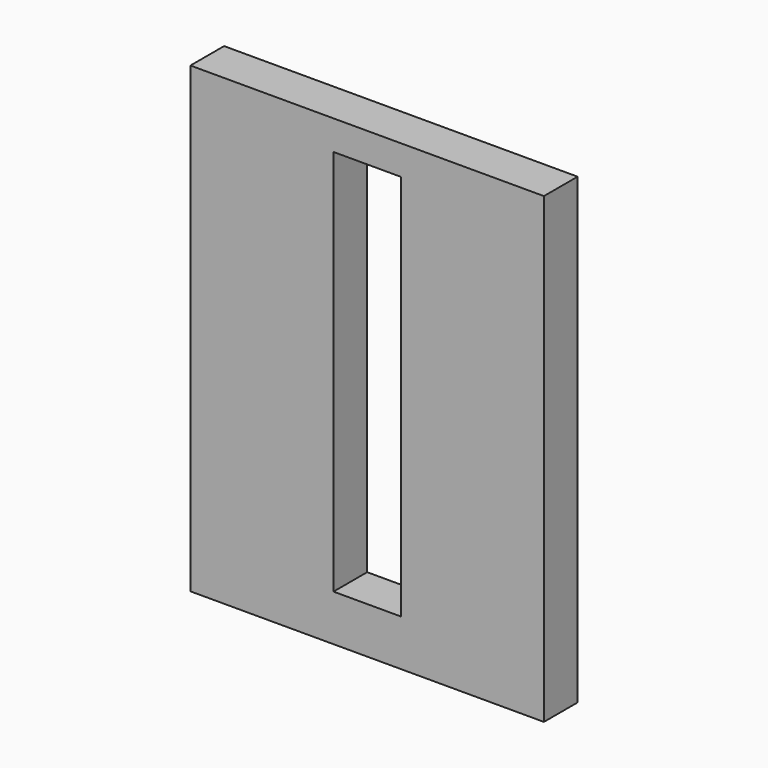
from build123d import *

# Parameters (mm, degrees)
F0_W     = 53.34
F0_H     = 69.85
F1_DEPTH = 6.35


with BuildPart() as f1:
    # F0 (on Front) → F1 (new body)
    with BuildSketch(Plane.XZ):
        with Locations((18.915267, 5.530364)):
            Rectangle(F0_W, F0_H)
        Polygon((23.995267, 25.834043), (23.995267, 5.530364), (23.995267, -12.249636), (23.995267, -22.409636), (13.835267, -22.409636), (13.835267, -12.249636), (13.835267, 5.530364), (13.835267, 23.310364), (13.835267, 25.834043), (13.835267, 35.994043), (23.995267, 35.994043), align=None, mode=Mode.SUBTRACT)
    extrude(amount=F1_DEPTH)


solid = f1.part
